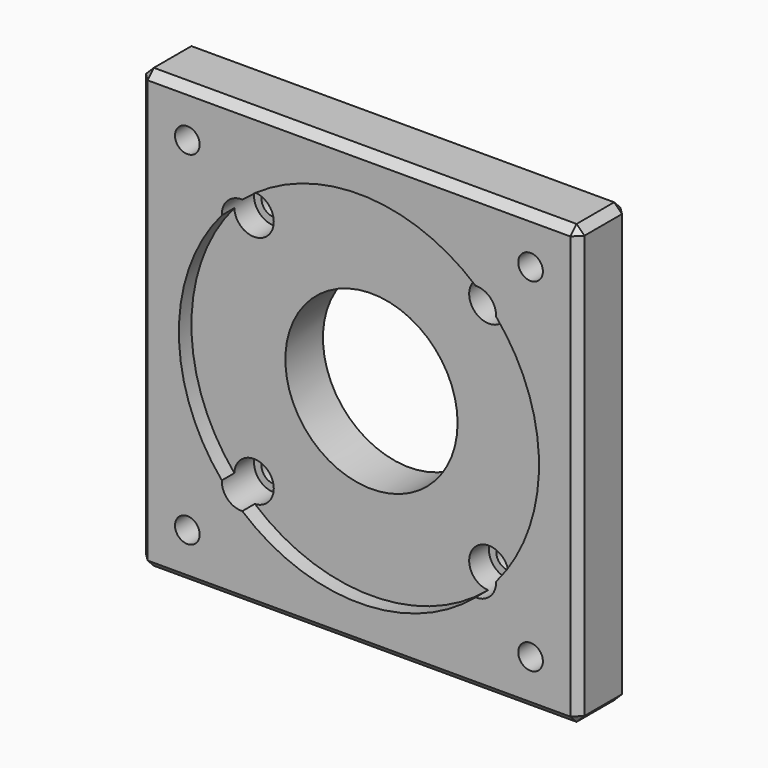
from build123d import *

# Parameters (mm, degrees)
F0_W           = 88.9
F0_H           = 88.9
F0_R           = 2.5
F0_R_2         = 17.4625
F1_DEPTH       = 12.7
F2_R           = 36.5125
F3_DEPTH       = 3.175
F5_D           = 5
F5_START       = 3.175
F5_CBORE_D     = 8
F5_CBORE_DEPTH = 5
F6_SIZE        = 1.5875


with BuildPart() as f1:
    # F0 (on Front) → F1 (new body)
    with BuildSketch(Plane.XZ):
        Rectangle(F0_W, F0_H)
        with Locations((-34.8, -34.8)):
            Circle(F0_R, mode=Mode.SUBTRACT)
        with Locations((34.8, -34.8)):
            Circle(F0_R, mode=Mode.SUBTRACT)
        with Locations((-34.8, 34.8)):
            Circle(F0_R, mode=Mode.SUBTRACT)
        Circle(F0_R_2, mode=Mode.SUBTRACT)
        with Locations((34.8, 34.8)):
            Circle(F0_R, mode=Mode.SUBTRACT)
    extrude(amount=F1_DEPTH)

    # F2 (on face) → F3 (cut)
    with BuildSketch(Plane.XZ.offset(12.7)):
        Circle(F2_R)
    extrude(amount=-F3_DEPTH, mode=Mode.SUBTRACT)

    # F5 (through all)
    # its depths count from where the whole tool has entered the part; down to there all is cleared
    with Locations(Plane.XZ.offset(12.7).offset(-F5_START)):
        with Locations((-23.8125, 23.8125), (23.8125, 23.8125), (23.8125, -23.8125), (-23.8125, -23.8125)):
            CounterBoreHole(F5_D / 2, F5_CBORE_D / 2, F5_CBORE_DEPTH)

    # F6
    f6_edges = [f1.edges().sort_by_distance(p)[0] for p in [
        (0, -12.7, 44.45),
        (-44.45, -12.7, 0),
        (44.45, -12.7, 0),
        (0, -12.7, -44.45),
        (44.45, 0, 0),
        (0, 0, -44.45),
        (-44.45, 0, 0),
        (0, 0, 44.45),
        (-44.45, -6.35, 44.45),
        (-44.45, -6.35, -44.45),
        (44.45, -6.35, 44.45),
        (44.45, -6.35, -44.45),
    ]]
    chamfer(f6_edges, length=F6_SIZE)


solid = f1.part
